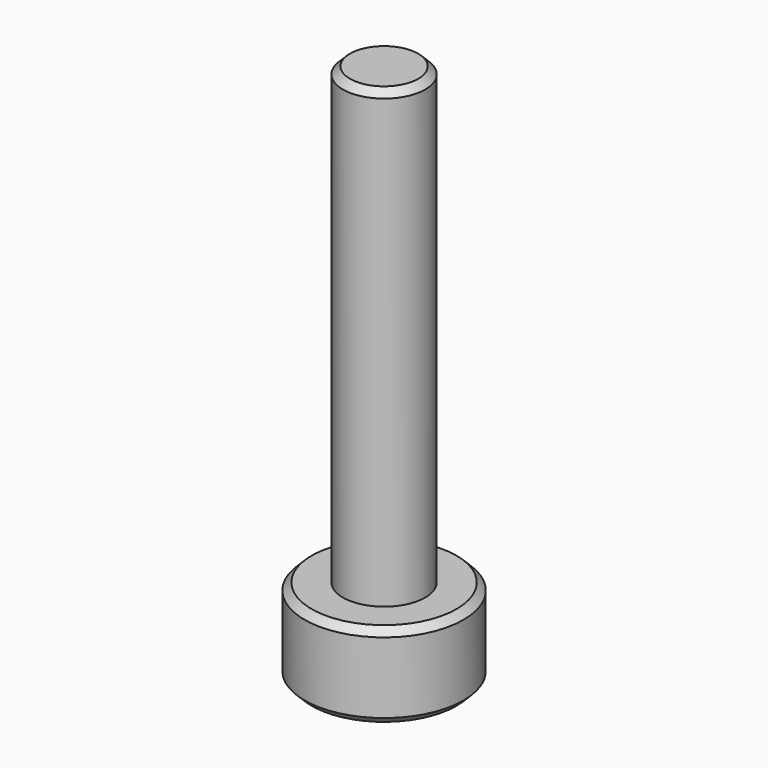
from build123d import *

# Parameters (mm, degrees)
SKETCH_R     = 2.8
PAD_DEPTH    = 3
SKETCH001_R  = 1.45
PAD001_DEPTH = 16
POCKET_DEPTH = 2
CHAMFER_SIZE = 0.25


with BuildPart() as part:
    # Sketch → Pad (new body)
    with BuildSketch(Plane.XY):
        Circle(SKETCH_R)
    extrude(amount=PAD_DEPTH)

    # Sketch001 (on Face3 of Pad) → Pad001 (join)
    with BuildSketch(Plane.XY.offset(3)):
        Circle(SKETCH001_R)
    extrude(amount=PAD001_DEPTH)

    # Sketch002 (on Face2 of Pad001) → Pocket (cut)
    with BuildSketch(Plane(origin=(0, 0, 0), x_dir=(1, 0, 0), z_dir=(0, 0, -1))):
        Polygon((1.259542, 0.814588), (-0.075682, 1.49809), (-1.335225, 0.683502), (-1.259542, -0.814588), (0.075682, -1.49809), (1.335225, -0.683502), align=None)
    extrude(amount=-POCKET_DEPTH, mode=Mode.SUBTRACT)

    # Chamfer
    chamfer_edges = [part.edges().sort_by_distance(p)[0] for p in [
        (-2.8, 0, 3),
        (-2.8, 0, 0),
        (1.297384, -0.065543, 0),
        (0.705454, 1.090796, 0),
        (-0.59193, 1.156339, 0),
        (-1.297384, 0.065543, 0),
        (-0.705454, -1.090796, 0),
        (0.59193, -1.156339, 0),
        (-1.45, 0, 19),
    ]]
    chamfer(chamfer_edges, length=CHAMFER_SIZE)


solid = part.part
